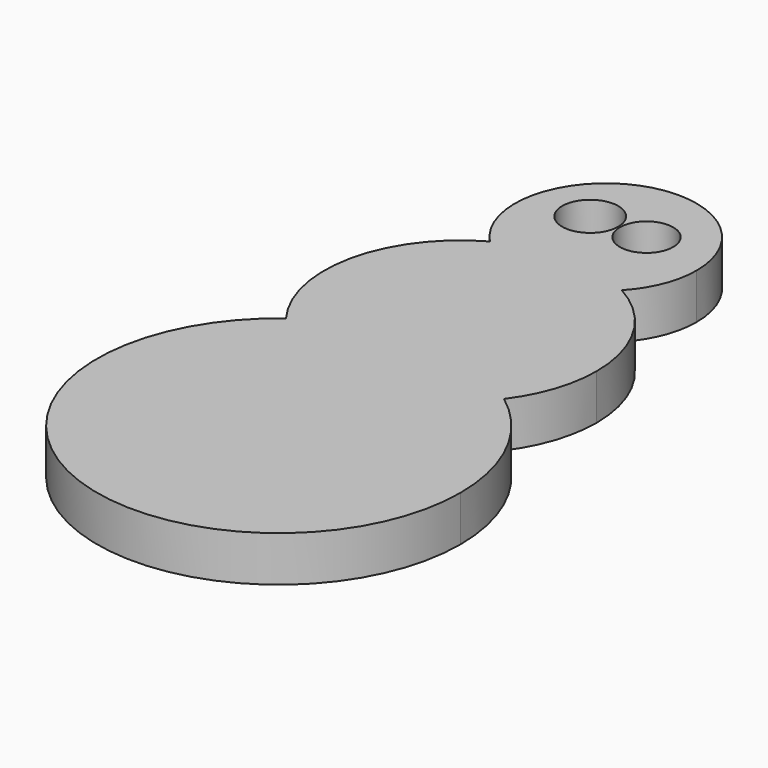
from build123d import *

# Parameters (mm, degrees)
F1_DEPTH = 6.35
F2_R     = 3.9214
F2_R_2   = 3.732708
F3_DEPTH = 25.4


with BuildPart() as f1:
    # F0 (on Top) → F1 (new body)
    with BuildSketch(Plane.XY):
        with BuildLine():
            ThreePointArc((-15.24, 20.32), (-11.359225, -22.718451), (25.4, 0))
            ThreePointArc((25.4, 0), (22.718451, 11.359225), (15.24, 20.32))
            ThreePointArc((15.24, 20.32), (0, 12.7), (-15.24, 20.32))
        make_face()
        with BuildLine():
            ThreePointArc((-15.24, 20.32), (0, 25.4), (15.24, 20.32))
            ThreePointArc((15.24, 20.32), (18.072417, 25.725861), (19.05, 31.75))
            ThreePointArc((19.05, 31.75), (16.410239, 41.425047), (9.222542, 48.41875))
            ThreePointArc((9.222542, 48.41875), (0, 44.45), (-9.222542, 48.41875))
            ThreePointArc((-9.222542, 48.41875), (-18.627639, 35.739182), (-15.24, 20.32))
        make_face()
        with BuildLine():
            ThreePointArc((12.7, 57.15), (-4.699134, 68.94865), (-9.222542, 48.41875))
            ThreePointArc((-9.222542, 48.41875), (0, 50.8), (9.222542, 48.41875))
            ThreePointArc((9.222542, 48.41875), (11.79865, 52.450866), (12.7, 57.15))
        make_face()
        with BuildLine():
            ThreePointArc((-15.24, 20.32), (0, 12.7), (15.24, 20.32))
            ThreePointArc((15.24, 20.32), (0, 25.4), (-15.24, 20.32))
        make_face()
        with BuildLine():
            ThreePointArc((9.222542, 48.41875), (0, 50.8), (-9.222542, 48.41875))
            ThreePointArc((-9.222542, 48.41875), (0, 44.45), (9.222542, 48.41875))
        make_face()
    extrude(amount=F1_DEPTH)

    # F2 (on face) → F3 (cut)
    with BuildSketch(Plane.XY.offset(6.35)):
        with Locations((-4.372133, 59.898198)):
            Circle(F2_R)
        with Locations((3.497707, 59.898198)):
            Circle(F2_R_2)
    extrude(amount=-F3_DEPTH, mode=Mode.SUBTRACT)


solid = f1.part
